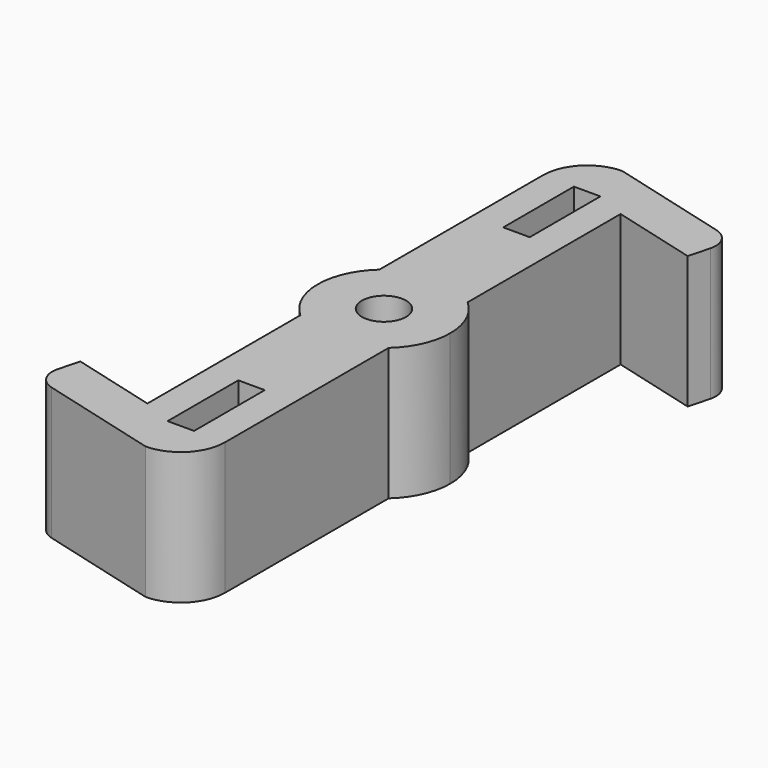
from build123d import *

# Parameters (mm, degrees)
F0_R     = 3.175
F1_DEPTH = 19.05
F2_W     = 3.81
F2_H     = 12.7
F3_DEPTH = 19.05


with BuildPart() as f1:
    # F0 (on Top) → F1 (new body)
    with BuildSketch(Plane.XY):
        with BuildLine():
            ThreePointArc((12.7, 29.4129841714), (15.0450956004, 32.6239350333), (15.875, 36.5125))
            ThreePointArc((15.875, 36.5125), (15.0450956004, 40.4010649667), (12.7, 43.6120158286))
            ThreePointArc((12.7, 43.6120158286), (6.35, 46.0375), (0, 43.6120158286))
            ThreePointArc((0, 43.6120158286), (-3.175, 36.5125), (0, 29.4129841714))
            ThreePointArc((0, 29.4129841714), (6.35, 26.9875), (12.7, 29.4129841714))
        make_face()
        with Locations((6.35, 36.5125)):
            Circle(F0_R, mode=Mode.SUBTRACT)
        with BuildLine():
            ThreePointArc((0, 43.6120158286), (6.35, 46.0375), (12.7, 43.6120158286))
            Line((12.7, 43.6120158286), (12.7, 71.0995188825))
            Line((12.7, 71.0995188825), (24.9672579939, 67.8125170097))
            Line((24.9672579939, 67.8125170097), (25.7890084621, 70.8793315081))
            ThreePointArc((25.7890084621, 70.8793315081), (25.4718246206, 73.2885819763), (23.5439444318, 74.7678964748))
            Line((23.5439444318, 74.7678964748), (6.35, 79.375))
            ThreePointArc((6.35, 79.375), (1.8598719395, 77.5151280605), (0, 73.025))
            Line((0, 73.025), (0, 43.6120158286))
        make_face()
        with BuildLine():
            Line((12.7, 0), (12.7, 29.4129841714))
            ThreePointArc((12.7, 29.4129841714), (6.35, 26.9875), (0, 29.4129841714))
            Line((0, 29.4129841714), (0, 1.9254811175))
            Line((0, 1.9254811175), (-12.2672579939, 5.2124829903))
            Line((-12.2672579939, 5.2124829903), (-13.0890084621, 2.1456684919))
            ThreePointArc((-13.0890084621, 2.1456684919), (-12.7718246206, -0.2635819763), (-10.8439444318, -1.7428964748))
            Line((-10.8439444318, -1.7428964748), (6.35, -6.35))
            ThreePointArc((6.35, -6.35), (10.8401280605, -4.4901280605), (12.7, 0))
        make_face()
    extrude(amount=F1_DEPTH)

    # F2 (on face) → F3 (cut, through all)
    with BuildSketch(Plane.XY.offset(19.05)):
        with Locations((6.35, 66.675)):
            Rectangle(F2_W, F2_H)
        with Locations((6.35, 6.35)):
            Rectangle(F2_W, F2_H)
    extrude(amount=-F3_DEPTH, mode=Mode.SUBTRACT)


solid = f1.part
